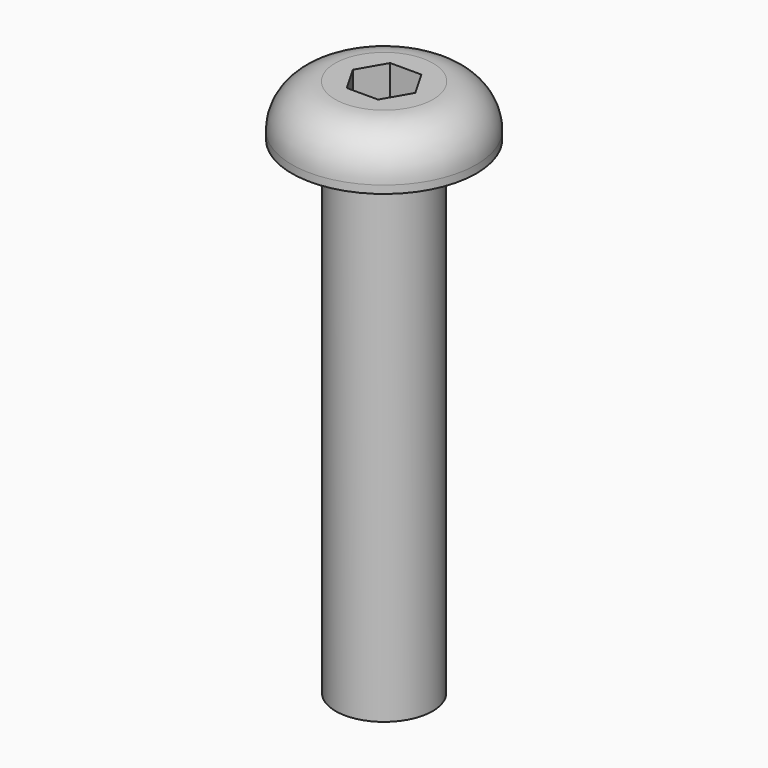
from build123d import *

# Parameters (mm, degrees)
F0_R     = 1.4224
F1_DEPTH = 14.2875
F2_R     = 2.7051
F3_DEPTH = 1.4986
F4_R     = 1.27
F6_DEPTH = 0.89154


with BuildPart() as f1:
    # F0 (on Top) → F1 (new body)
    with BuildSketch(Plane.XY):
        Circle(F0_R)
    extrude(amount=F1_DEPTH)

    # F2 (on face) → F3 (join)
    with BuildSketch(Plane.XY.offset(14.2875)):
        Circle(F2_R)
    extrude(amount=F3_DEPTH)

    # F4
    f4_edges = [f1.edges().sort_by_distance(p)[0] for p in [
        (-2.7051, 0, 15.7861),
    ]]
    fillet(f4_edges, radius=F4_R)

    # F5 (on face) → F6 (cut)
    with BuildSketch(Plane.XY.offset(15.7861)):
        Polygon((0.458272, -0.79375), (0.916544, 0), (0.458272, 0.79375), (-0.458272, 0.79375), (-0.916544, 0), (-0.458272, -0.79375), align=None)
    extrude(amount=-F6_DEPTH, mode=Mode.SUBTRACT)


solid = f1.part
